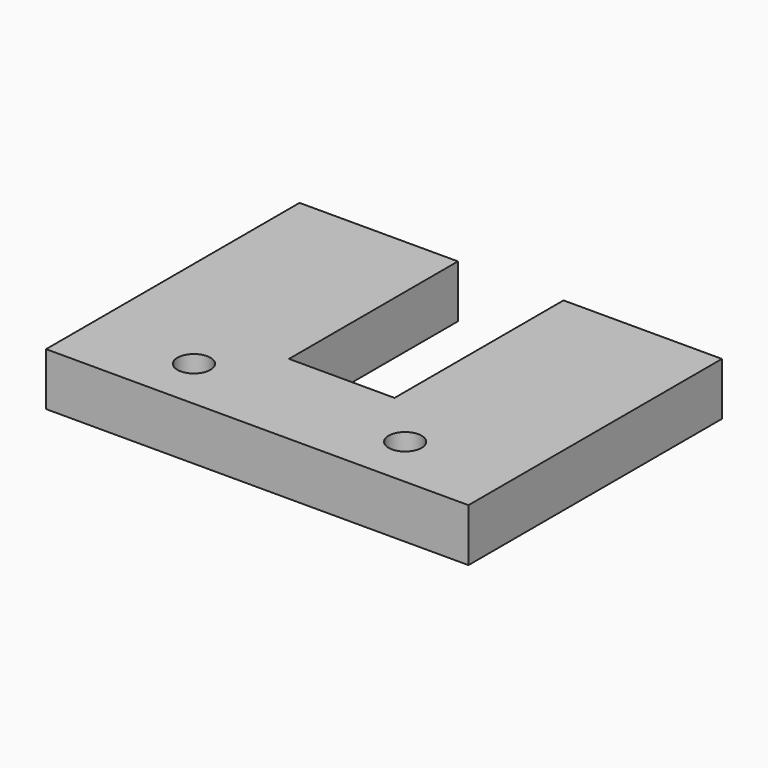
from build123d import *

# Parameters (mm, degrees)
F0_W     = 203.2
F0_H     = 152.4
F0_R     = 7.9375
F1_DEPTH = 25.4
F2_W     = 50.8
F2_H     = 203.2
F3_DEPTH = 50.8
F4_R     = 7.9375
F5_DEPTH = 25.4
F6_R     = 7.9375
F7_DEPTH = 25.4


with BuildPart() as f1:
    # F0 (on Top) → F1 (new body)
    with BuildSketch(Plane.XY):
        Rectangle(F0_W, F0_H)
        Circle(F0_R, mode=Mode.SUBTRACT)
    extrude(amount=F1_DEPTH)

    # F2 (on face) → F3 (cut)
    with BuildSketch(Plane.XY.offset(25.4)):
        with Locations((0, 76.2)):
            Rectangle(F2_W, F2_H)
    extrude(amount=-F3_DEPTH, mode=Mode.SUBTRACT)

    # F4 (on face) → F5 (cut)
    with BuildSketch(Plane.XY.offset(25.4)):
        with Locations((-50.8, -50.8)):
            Circle(F4_R)
        with Locations((50.8, -50.8)):
            Circle(F4_R)
    extrude(amount=-F5_DEPTH, mode=Mode.SUBTRACT)

    # F6 (on face) → F7 (cut)
    with BuildSketch(Plane(origin=(0, 76.2, 0), x_dir=(-1, 0, 0), z_dir=(0, 1, 0))):
        with Locations((-44.45, 12.7)):
            Circle(F6_R)
        with Locations((44.45, 12.7)):
            Circle(F6_R)
    extrude(amount=-F7_DEPTH, mode=Mode.SUBTRACT)


solid = f1.part
